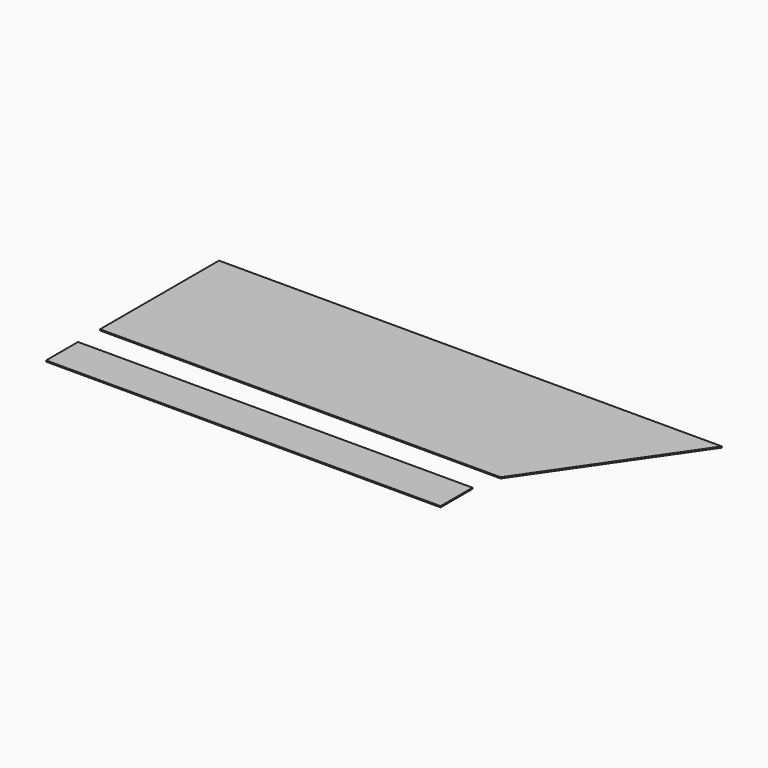
from build123d import *

# Parameters (mm, degrees)
F1_DEPTH = 0.3
F2_DEPTH = 0.3


with BuildPart() as f1:
    # F0 (on Top) → F1 (new body)
    with BuildSketch(Plane.XY):
        Polygon((33.552063, 2.345435), (-69.097937, 2.345435), (-69.097937, -8.184565), (33.552063, -8.184565), (33.952063, -8.184565), (34.952063, -8.184565), (34.952063, 2.345435), (33.952063, 2.345435), align=None)
    extrude(amount=F1_DEPTH)


with BuildPart() as f2:
    # F0 (on Top) → F2 (new body)
    with BuildSketch(Plane.XY):
        Polygon((-69.097937, 48.814435), (-69.097937, 9.604435), (36.552063, 9.604435), (63.557015, 48.814435), (54.341063, 48.814435), align=None)
    extrude(amount=F2_DEPTH)


solid = Compound([f1.part, f2.part])
